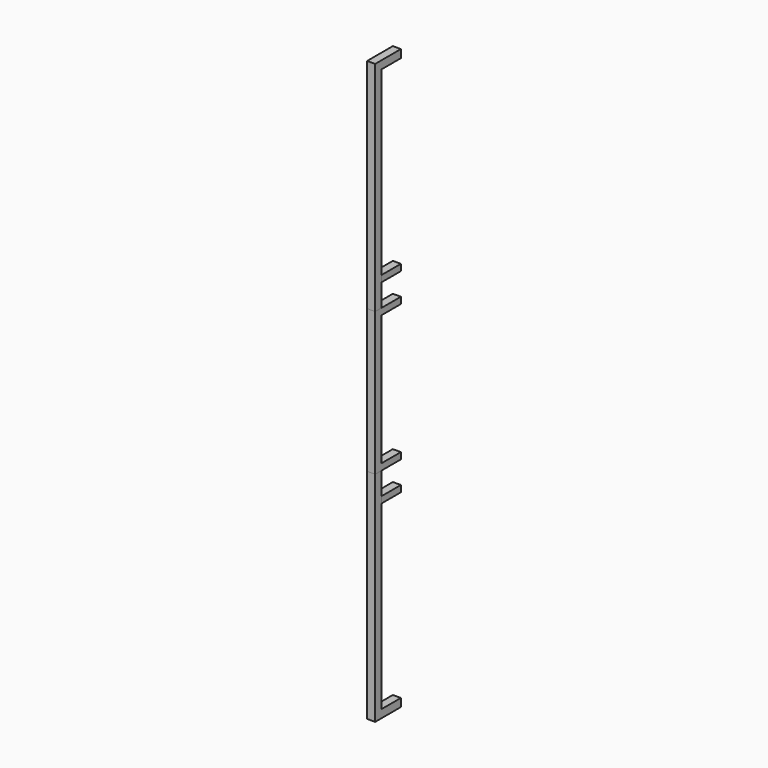
from build123d import *

# Parameters (mm, degrees)
F1_DEPTH = 5
F3_DEPTH = 5
F5_DEPTH = 5
F7_DEPTH = 5


with BuildPart() as f1:
    # F0 (on Right) → F1 (new body, symmetric)
    with BuildSketch(Plane.YZ):
        Polygon((-32, 117), (0, 117), (0, 125), (-40, 125), (-40, -125), (0, -125), (0, -117), (-32, -117), align=None)
    extrude(amount=F1_DEPTH, both=True)


with BuildPart() as f3:
    # F2 (on Right) → F3 (new body, symmetric)
    with BuildSketch(Plane.YZ):
        Polygon((-30, 350), (0, 350), (0, 360), (-40, 360), (-40, -360), (0, -360), (0, -350), (-30, -350), align=None)
    extrude(amount=F3_DEPTH, both=True)


with BuildPart() as f5:
    # F4 (on Right) → F5 (new body, symmetric)
    with BuildSketch(Plane.YZ):
        Polygon((-32, 81), (0, 81), (0, 89), (-40, 89), (-40, -89), (0, -89), (0, -81), (-32, -81), align=None)
    extrude(amount=F5_DEPTH, both=True)


with BuildPart() as f7:
    # F6 (on Right) → F7 (new body, symmetric)
    with BuildSketch(Plane.YZ):
        Polygon((-32, 81), (0, 81), (0, 89), (-40, 89), (-40, -89), (0, -89), (0, -81), (-32, -81), align=None)
    extrude(amount=F7_DEPTH, both=True)


solid = Compound([f1.part, f3.part, f5.part, f7.part])
